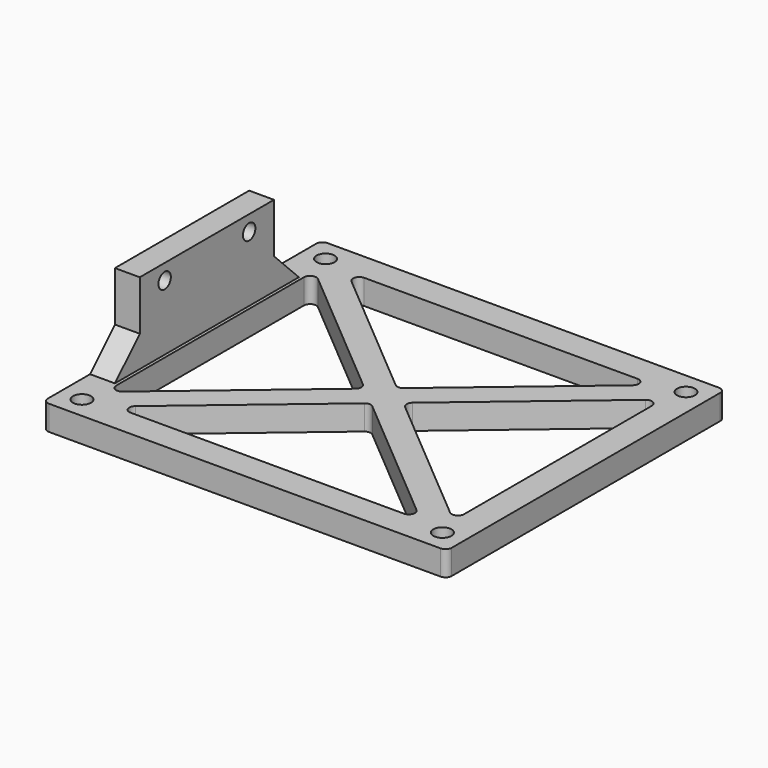
from build123d import *

# Parameters (mm, degrees)
SKETCH_W        = 65
SKETCH_H        = 56
SKETCH_R        = 1.45
PAD_DEPTH       = 4
SKETCH002_R     = 1.25
POCKET_DEPTH    = 5
SKETCH003_W     = 4
SKETCH003_H     = 27
PAD001_DEPTH    = 13
SKETCH004_R     = 1.25
POCKET001_DEPTH = 65.001
CHAMFER_SIZE    = 5
FILLET_R        = 1
CHAMFER001_SIZE = 1


with BuildPart() as part:
    # Sketch → Pad (new body)
    with BuildSketch(Plane.XY):
        with Locations((32.5, 28)):
            Rectangle(SKETCH_W, SKETCH_H)
        with Locations((3.5, 52.5)):
            Circle(SKETCH_R, mode=Mode.SUBTRACT)
        with Locations((61.5, 52.5)):
            Circle(SKETCH_R, mode=Mode.SUBTRACT)
        with Locations((3.5, 3.5)):
            Circle(SKETCH_R, mode=Mode.SUBTRACT)
        with Locations((61.5, 3.5)):
            Circle(SKETCH_R, mode=Mode.SUBTRACT)
        Polygon((7.782759, 51.5), (57.217241, 51.5), (32.5, 30.618193), align=None, mode=Mode.SUBTRACT)
        Polygon((60.5, 49.036979), (60.5, 6.963021), (35.599086, 28), align=None, mode=Mode.SUBTRACT)
        Polygon((57.217241, 4.5), (7.782759, 4.5), (32.5, 25.381807), align=None, mode=Mode.SUBTRACT)
        Polygon((4.5, 6.963021), (4.5, 49.036979), (29.400914, 28), align=None, mode=Mode.SUBTRACT)
    extrude(amount=PAD_DEPTH)

    # Sketch002 → Pocket (cut)
    with BuildSketch(Plane(origin=(-1.55844, 1.844684, 0), x_dir=(-0.763886, -0.645352, 0), z_dir=(-0.645352, 0.763886, 0))):
        with Locations((-21.5, 5.25)):
            Circle(SKETCH002_R)
        with Locations((-4.5, 5.25)):
            Circle(SKETCH002_R)
    extrude(amount=-POCKET_DEPTH, mode=Mode.SUBTRACT)

    # Sketch003 (on Face22 of Pocket) → Pad001 (join)
    with BuildSketch(Plane.XY.offset(4)):
        with Locations((2, 28)):
            Rectangle(SKETCH003_W, SKETCH003_H)
    extrude(amount=PAD001_DEPTH)

    # Sketch004 (on Face7 of Pad001) → Pocket001 (cut, through all)
    with BuildSketch(Plane(origin=(0, 0, 0), x_dir=(0, -1, 0), z_dir=(-1, 0, 0))):
        with Locations((-36.5, 14.5)):
            Circle(SKETCH004_R)
        with Locations((-19.5, 14.5)):
            Circle(SKETCH004_R)
    extrude(amount=-POCKET001_DEPTH, mode=Mode.SUBTRACT)

    # Chamfer
    chamfer_edges = [part.edges().sort_by_distance(p)[0] for p in [
        (2, 41.5, 4),
        (2, 14.5, 4),
    ]]
    chamfer(chamfer_edges, length=CHAMFER_SIZE)

    # Fillet
    fillet_edges = [part.edges().sort_by_distance(p)[0] for p in [
        (7.782759, 51.5, 2),
        (35.599086, 28, 2),
        (60.5, 6.963021, 2),
        (4.5, 6.963021, 2),
        (29.400914, 28, 2),
        (7.782759, 4.5, 2),
        (57.217241, 4.5, 2),
        (57.217241, 51.5, 2),
        (4.5, 49.036979, 2),
        (4.95, 52.5, 2),
        (32.5, 25.381807, 2),
        (32.5, 30.618193, 2),
        (60.5, 49.036979, 2),
        (0, 56, 2),
        (65, 56, 2),
        (65, 0, 2),
        (0, 0, 2),
    ]]
    fillet(fillet_edges, radius=FILLET_R)

    # Chamfer001
    chamfer001_edges = [part.edges().sort_by_distance(p)[0] for p in [
        (2.05, 52.5, 0),
        (2.05, 3.5, 0),
        (60.05, 3.5, 0),
        (60.05, 52.5, 0),
    ]]
    chamfer(chamfer001_edges, length=CHAMFER001_SIZE)


solid = part.part
